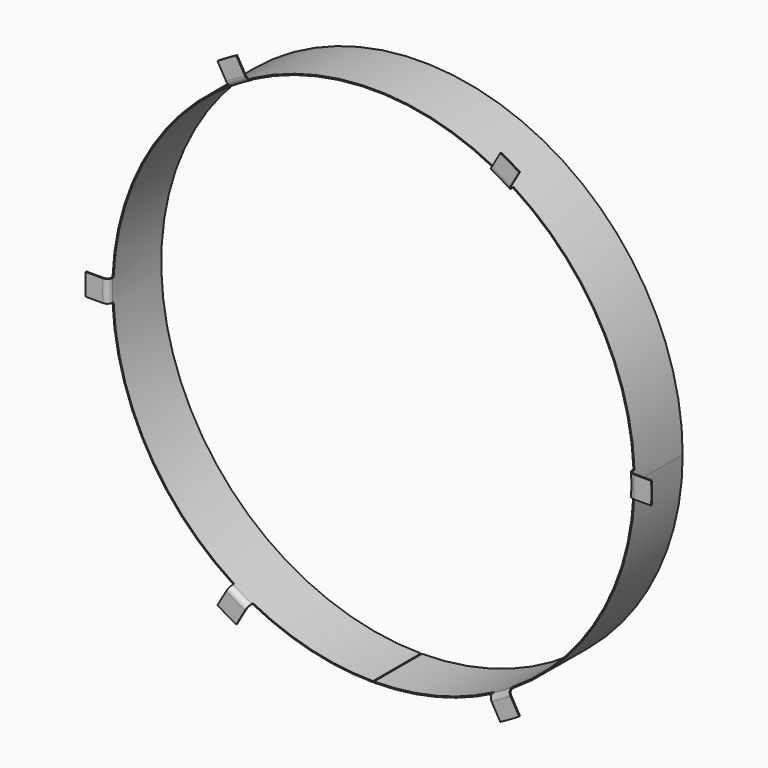
from build123d import *

# Parameters (mm, degrees)
F3_DEPTH      = 6.35
F3_DEPTH_BACK = 1.271
F4_W          = 1.27
F4_H          = 76.2
F5_DEPTH      = 76.201
F5_DEPTH_BACK = 1.2710001


with BuildPart() as f1:
    # F0 (on Top) → F1 (revolve)
    with BuildSketch(Plane.XY):
        with BuildLine():
            Line((304.8, 5.08), (304.8, 76.2))
            Line((304.8, 76.2), (303.53, 76.2))
            Line((303.53, 76.2), (303.53, 5.08))
            ThreePointArc((303.53, 5.08), (305.3898719395, 0.5898719395), (309.88, -1.27))
            Line((309.88, -1.27), (330.2, -1.27))
            Line((330.2, -1.27), (330.2, 0))
            Line((330.2, 0), (309.88, 0))
            ThreePointArc((309.88, 0), (306.2878975516, 1.4878975516), (304.8, 5.08))
        make_face()
    revolve(axis=Axis((0, 33.4558707156, 0), (0, -1, 0)))

    # F2 (on Front) → F3 (cut, two sides)
    with BuildSketch(Plane.XZ) as f3_sk:
        with BuildLine():
            Line((162.6306192468, -256.2844954019), (175.976362049, -279.4))
            ThreePointArc((175.976362049, -279.4), (285.9615883296, -165.1), (329.9556788419, -12.7))
            Line((329.9556788419, -12.7), (303.2641932375, -12.7))
            ThreePointArc((303.2641932375, -12.7), (262.8646908107, -151.765), (162.6306192468, -256.2844954019))
        make_face()
        with BuildLine():
            Line((303.2641932375, 12.7), (329.9556788419, 12.7))
            ThreePointArc((329.9556788419, 12.7), (285.9615883296, 165.1), (175.976362049, 279.4))
            Line((175.976362049, 279.4), (162.6306192468, 256.2844954019))
            ThreePointArc((162.6306192468, 256.2844954019), (262.8646908107, 151.765), (303.2641932375, 12.7))
        make_face()
        with BuildLine():
            ThreePointArc((-140.6335739907, 268.9844954019), (0, 303.53), (140.6335739907, 268.9844954019))
            Line((140.6335739907, 268.9844954019), (153.9793167929, 292.1))
            ThreePointArc((153.9793167929, 292.1), (0, 330.2), (-153.9793167929, 292.1))
            Line((-153.9793167929, 292.1), (-140.6335739907, 268.9844954019))
        make_face()
        with BuildLine():
            Line((-329.9556788419, 12.7), (-303.2641932375, 12.7))
            ThreePointArc((-303.2641932375, 12.7), (-262.8646908107, 151.765), (-162.6306192468, 256.2844954019))
            Line((-162.6306192468, 256.2844954019), (-175.976362049, 279.4))
            ThreePointArc((-175.976362049, 279.4), (-285.9615883296, 165.1), (-329.9556788419, 12.7))
        make_face()
        with BuildLine():
            Line((-175.976362049, -279.4), (-162.6306192468, -256.2844954019))
            ThreePointArc((-162.6306192468, -256.2844954019), (-262.8646908107, -151.765), (-303.2641932375, -12.7))
            Line((-303.2641932375, -12.7), (-329.9556788419, -12.7))
            ThreePointArc((-329.9556788419, -12.7), (-285.9615883296, -165.1), (-175.976362049, -279.4))
        make_face()
        with BuildLine():
            ThreePointArc((-153.9793167929, -292.1), (0, -330.2), (153.9793167929, -292.1))
            Line((153.9793167929, -292.1), (140.6335739907, -268.9844954019))
            ThreePointArc((140.6335739907, -268.9844954019), (0, -303.53), (-140.6335739907, -268.9844954019))
            Line((-140.6335739907, -268.9844954019), (-153.9793167929, -292.1))
        make_face()
    extrude(amount=-F3_DEPTH, mode=Mode.SUBTRACT)
    extrude(f3_sk.sketch, amount=F3_DEPTH_BACK, mode=Mode.SUBTRACT)

    # F4 (on Front) → F5 (cut, two sides)
    with BuildSketch(Plane.XZ) as f5_sk:
        with Locations((0, -319.9747502804)):
            Rectangle(F4_W, F4_H)
    extrude(amount=-F5_DEPTH, mode=Mode.SUBTRACT)
    extrude(f5_sk.sketch, amount=F5_DEPTH_BACK, mode=Mode.SUBTRACT)


solid = f1.part
